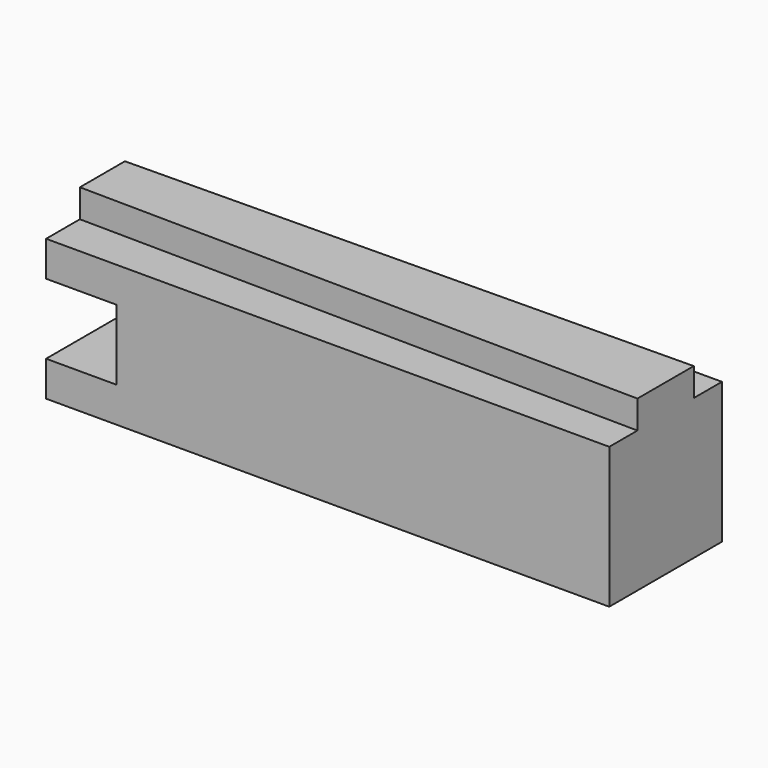
from build123d import *

# Parameters (mm, degrees)
F0_W     = 400
F0_H     = 100
F1_DEPTH = 100
F3_DEPTH = 20
F4_W     = 100
F4_H     = 50
F5_DEPTH = 50


with BuildPart() as f1:
    # F0 (on Top) → F1 (new body)
    with BuildSketch(Plane.XY):
        with Locations((70.573999, 8.728447)):
            Rectangle(F0_W, F0_H)
    extrude(amount=F1_DEPTH)

    # F2 (on face) → F3 (join)
    with BuildSketch(Plane.XY.offset(100)):
        Polygon((270.573999, -16.271553), (270.573999, 33.728447), (-129.426001, 28.728447), (-129.426001, -11.271553), align=None)
    extrude(amount=F3_DEPTH)

    # F4 (on face) → F5 (cut)
    with BuildSketch(Plane(origin=(-129.426001, 0, 0), x_dir=(0, -1, 0), z_dir=(-1, 0, 0))):
        with Locations((-8.728447, 50)):
            Rectangle(F4_W, F4_H)
    extrude(amount=-F5_DEPTH, mode=Mode.SUBTRACT)


solid = f1.part
